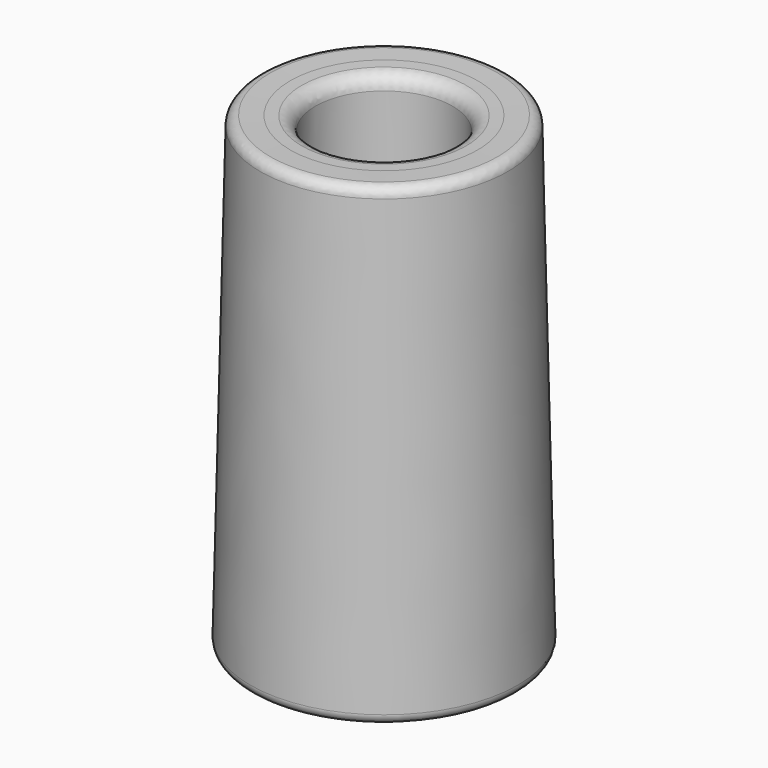
from build123d import *

# Parameters (mm, degrees)
F3_R = 0.5
F4_R = 0.7


with BuildPart() as f2:
    # F1 (on Front) → F2 (revolve)
    with BuildSketch(Plane.XZ):
        Polygon((-6.75, 0), (-5.25, 0), (-5.144249, 4.683239), (-4.837149, 18.283406), (-4.717968, 23.56143), (-6.217203, 23.595284), align=None)
        Polygon((-4.717968, 23.56143), (-4.837149, 18.283406), (-3.45, 18.283406), (-3.45, 23.532799), align=None)
    revolve(axis=Axis((0, 0, 1.148649), (0, 0, -1)))

    # F3
    f3_edges = [f2.edges().sort_by_distance(p)[0] for p in [
        (6.217203, 0, 23.595284),
        (6.75, 0, 0),
        (5.25, 0, 0),
    ]]
    fillet(f3_edges, radius=F3_R)

    # F4
    f4_edges = [f2.edges().sort_by_distance(p)[0] for p in [
        (3.45, 0, 18.283406),
        (3.45, 0, 23.532799),
        (-3.45, 0, 20.908103),
        (4.837149, 0, 18.283406),
    ]]
    fillet(f4_edges, radius=F4_R)


solid = f2.part
